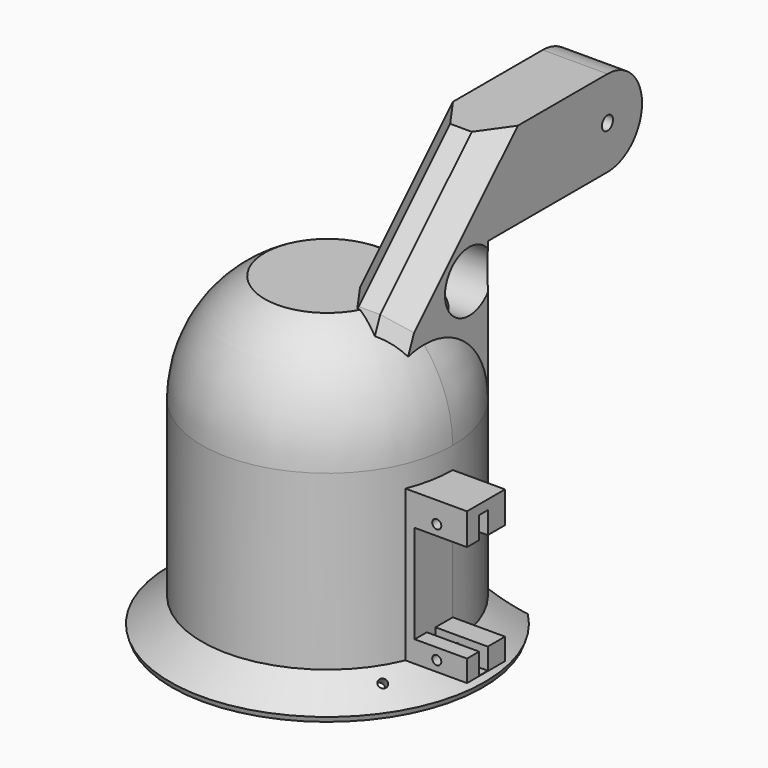
from build123d import *

# Parameters (mm, degrees)
CYLINDER343_R               = 26
CYLINDER343_DEPTH           = 40
CYLINDER338_R               = 1.5
CYLINDER338_DEPTH           = 20
CYLINDER338_PLACEMENT_ANGLE = 45
CYLINDER339_R               = 1
CYLINDER339_DEPTH           = 20
CYLINDER339_PLACEMENT_ANGLE = 45
FUSION303_PLACEMENT_ANGLE   = 45
FUSION350_PLACEMENT_ANGLE   = 12
CYLINDER342_R               = 29
CYLINDER342_DEPTH           = 40
CHAMFER043_SIZE             = 2
CYLINDER344_W               = 29
CYLINDER344_H               = 40
CYLINDER344_ANGLE           = 90
CYLINDER345_W               = 35
CYLINDER345_H               = 40
CYLINDER345_ANGLE           = 90
CYLINDER341_R               = 1.05
CYLINDER341_DEPTH           = 50
CYLINDER337_R               = 1.05
CYLINDER337_DEPTH           = 50
FUSION348_PLACEMENT_ANGLE   = 90
BOX450_W                    = 12.1
BOX450_H                    = 14
BOX450_DEPTH                = 35
BOX448_W                    = 12.1
BOX448_H                    = 2.5
BOX448_DEPTH                = 32.7
BOX449_W                    = 12.1
BOX449_H                    = 26.7
BOX449_DEPTH                = 22.7
CYLINDER340_R               = 2.4
CYLINDER340_DEPTH           = 3
BOX447_W                    = 45.1
BOX447_H                    = 25
BOX447_DEPTH                = 35
CYLINDER347_R               = 26
CYLINDER347_DEPTH           = 40
CYLINDER348_W               = 29
CYLINDER348_H               = 79
CYLINDER348_ANGLE           = 90
CYLINDER349_W               = 50
CYLINDER349_H               = 79
CYLINDER349_ANGLE           = 90
CYLINDER346_R               = 7
CYLINDER346_DEPTH           = 50
BOX451_W                    = 15
BOX451_H                    = 39
BOX451_DEPTH                = 67
CHAMFER040_SIZE             = 30
CHAMFER041_SIZE             = 5
BOX453_W                    = 7
BOX453_H                    = 34
BOX453_DEPTH                = 13
CYLINDER351_R               = 1.6
CYLINDER351_DEPTH           = 25
CYLINDER350_R               = 10
CYLINDER350_DEPTH           = 15
BOX452_W                    = 15
BOX452_H                    = 24
BOX452_DEPTH                = 20


with BuildPart() as sphere008:
    # Sphere008 → Sphere008 (revolve)
    with BuildSketch(Plane(origin=(-34, -145, 13), x_dir=(1, 0, 0), z_dir=(0, -1, 0))):
        with BuildLine():
            ThreePointArc((26, 0), (22.51666, 13), (13, 22.51666))
            Line((13, 22.51666), (0, 22.51666))
            Line((0, 22.51666), (0, 0))
            Line((0, 0), (26, 0))
        make_face()
    revolve(axis=Axis((-34, -145, 13), (0, 0, 1)))


with BuildPart() as fusion349:
    # Cylinder343 → Cylinder343 (new body)
    with BuildSketch(Plane(origin=(-34, -145, -27), x_dir=(1, 0, 0), z_dir=(0, 0, 1))):
        Circle(CYLINDER343_R)
    extrude(amount=CYLINDER343_DEPTH)

    # Fusion349: union Sphere008
    add(sphere008.part)


with BuildPart() as fusion349_1:
    # Fusion349 placement: moved
    add(fusion349.part.moved(Location((0, 0, 12))))


with BuildPart() as cylinder338:
    # Cylinder338 → Cylinder338 (new body)
    with BuildSketch(Plane.XY):
        Circle(CYLINDER338_R)
    extrude(amount=CYLINDER338_DEPTH)


with BuildPart() as cylinder338_1:
    # Cylinder338 placement: moved
    add(cylinder338.part.moved(Location((-57, -145, -26))).rotate(Axis((-57, -145, -26), (0, -1, 0)), CYLINDER338_PLACEMENT_ANGLE))


with BuildPart() as fusion350:
    # Cylinder339 → Cylinder339 (new body)
    with BuildSketch(Plane.XY):
        Circle(CYLINDER339_R)
    extrude(amount=CYLINDER339_DEPTH)


with BuildPart() as fusion350_1:
    # Cylinder339 placement: moved
    add(fusion350.part.moved(Location((-11, -145, -26))).rotate(Axis((-11, -145, -26), (0, 1, 0)), CYLINDER339_PLACEMENT_ANGLE))

    # Fusion303: union Cylinder338
    add(cylinder338_1.part)


with BuildPart() as fusion350_2:
    # Fusion303 placement: moved
    add(fusion350_1.part.moved(Location((92.57, -66.51, 0))).rotate(Axis((92.57, -66.51, 0), (0, 0, -1)), FUSION303_PLACEMENT_ANGLE))


with BuildPart() as fusion350_3:
    # Fusion350 placement: moved
    add(fusion350_2.part.moved(Location((-30.890177, 3.9004, 0))).rotate(Axis((-30.890177, 3.9004, 0), (0, 0, 1)), FUSION350_PLACEMENT_ANGLE))


with BuildPart() as sphere010:
    # Sphere010 → Sphere010 (revolve)
    with BuildSketch(Plane(origin=(-34, -119, -36), x_dir=(1, 0, 0), z_dir=(0, -1, 0))):
        with BuildLine():
            ThreePointArc((0, -30), (30, 0), (0, 30))
            Line((0, 30), (0, -30))
        make_face()
    revolve(axis=Axis((-34, -119, -36), (0, 0, 1)))


with BuildPart() as cylinder342:
    # Cylinder342 → Cylinder342 (new body)
    with BuildSketch(Plane(origin=(-34, -145, -15), x_dir=(1, 0, 0), z_dir=(0, 0, 1))):
        Circle(CYLINDER342_R)
    extrude(amount=CYLINDER342_DEPTH)


with BuildPart() as sphere007:
    # Sphere007 → Sphere007 (revolve)
    with BuildSketch(Plane(origin=(-34, -145, 25), x_dir=(1, 0, 0), z_dir=(0, -1, 0))):
        with BuildLine():
            ThreePointArc((29, 0), (25.114737, 14.5), (14.5, 25.114737))
            Line((14.5, 25.114737), (0, 25.114737))
            Line((0, 25.114737), (0, 0))
            Line((0, 0), (29, 0))
        make_face()
    revolve(axis=Axis((-34, -145, 25), (0, 0, 1)))


with BuildPart() as cone005:
    # Cone005 → Cone005 (revolve)
    with BuildSketch(Plane.XZ):
        Polygon((0, 0), (33, 0), (26, 7), (0, 7), align=None)
    revolve(axis=Axis((0, 0, 0), (0, 0, 1)))


with BuildPart() as cut373:
    # Cone004 → Cone004 (revolve)
    with BuildSketch(Plane.XZ):
        Polygon((0, 0), (38, 0), (29, 7), (0, 7), align=None)
    revolve(axis=Axis((0, 0, 0), (0, 0, 1)))

    # Cut355: cut Cone005
    add(cone005.part, mode=Mode.SUBTRACT)


with BuildPart() as cut373_1:
    # Cut355 placement: moved
    add(cut373.part.moved(Location((-34, -145, -22))))

    # Chamfer043
    chamfer043_edges = [cut373_1.edges().sort_by_distance(p)[0] for p in [
        (-72, -145, -22),
    ]]
    chamfer(chamfer043_edges, length=CHAMFER043_SIZE)

    # Fusion358: union Cylinder342, Sphere007
    add(cylinder342.part)
    add(sphere007.part)

    # Cut372: cut Sphere010
    add(sphere010.part, mode=Mode.SUBTRACT)

    # Cut373: cut Fusion350
    add(fusion350_3.part, mode=Mode.SUBTRACT)


with BuildPart() as cylinder344:
    # Cylinder344 → Cylinder344 (revolve)
    with BuildSketch(Plane.XZ):
        with Locations((14.5, 20)):
            Rectangle(CYLINDER344_W, CYLINDER344_H)
    revolve(axis=Axis((0, 0, 0), (0, 0, 1)), revolution_arc=CYLINDER344_ANGLE)


with BuildPart() as cut329:
    # Cylinder345 → Cylinder345 (revolve)
    with BuildSketch(Plane.XZ):
        with Locations((17.5, 20)):
            Rectangle(CYLINDER345_W, CYLINDER345_H)
    revolve(axis=Axis((0, 0, 0), (0, 0, 1)), revolution_arc=CYLINDER345_ANGLE)

    # Cut329: cut Cylinder344
    add(cylinder344.part, mode=Mode.SUBTRACT)


with BuildPart() as cut329_1:
    # Cut329 placement: moved
    add(cut329.part.moved(Location((-34, -145, -17))))


with BuildPart() as cylinder341:
    # Cylinder341 → Cylinder341 (new body)
    with BuildSketch(Plane(origin=(0, -27.7, 0), x_dir=(1, 0, 0), z_dir=(0, 0, 1))):
        Circle(CYLINDER341_R)
    extrude(amount=CYLINDER341_DEPTH)


with BuildPart() as fusion348:
    # Cylinder337 → Cylinder337 (new body)
    with BuildSketch(Plane.XY):
        Circle(CYLINDER337_R)
    extrude(amount=CYLINDER337_DEPTH)

    # Fusion348: union Cylinder341
    add(cylinder341.part)


with BuildPart() as fusion348_1:
    # Fusion348 placement: moved
    add(fusion348.part.moved(Location((4.1, -111, 13.1))).rotate(Axis((4.1, -111, 13.1), (1, 0, 0)), FUSION348_PLACEMENT_ANGLE))


with BuildPart() as box450:
    # Box450 → Box450 (new body)
    with BuildSketch(Plane(origin=(-1, -135, -17), x_dir=(1, 0, 0), z_dir=(0, 0, 1))):
        with Locations((6.05, 7)):
            Rectangle(BOX450_W, BOX450_H)
    extrude(amount=BOX450_DEPTH)


with BuildPart() as box448:
    # Box448 → Box448 (new body)
    with BuildSketch(Plane(origin=(0, 8.5, -4.9), x_dir=(1, 0, 0), z_dir=(0, 0, 1))):
        with Locations((6.05, 1.25)):
            Rectangle(BOX448_W, BOX448_H)
    extrude(amount=BOX448_DEPTH)


with BuildPart() as box449:
    # Box449 → Box449 (new body)
    with BuildSketch(Plane.XY):
        with Locations((6.05, 13.35)):
            Rectangle(BOX449_W, BOX449_H)
    extrude(amount=BOX449_DEPTH)


with BuildPart() as fusion347:
    # Cylinder340 → Cylinder340 (new body)
    with BuildSketch(Plane(origin=(6.05, 0, 16.4), x_dir=(1, 0, 0), z_dir=(0, -1, 0))):
        Circle(CYLINDER340_R)
    extrude(amount=CYLINDER340_DEPTH)

    # Fusion347: union Box448, Box449
    add(box448.part)
    add(box449.part)


with BuildPart() as fusion347_1:
    # Fusion347 placement: moved
    add(fusion347.part.moved(Location((-1, -151, -12))))


with BuildPart() as cut384:
    # Box447 → Box447 (new body)
    with BuildSketch(Plane(origin=(-34, -146, -17), x_dir=(1, 0, 0), z_dir=(0, 0, 1))):
        with Locations((22.55, 12.5)):
            Rectangle(BOX447_W, BOX447_H)
    extrude(amount=BOX447_DEPTH)

    # Cut380: cut Fusion347
    add(fusion347_1.part, mode=Mode.SUBTRACT)

    # Cut381: cut Box450
    add(box450.part, mode=Mode.SUBTRACT)

    # Cut382: cut Fusion348
    add(fusion348_1.part, mode=Mode.SUBTRACT)


with BuildPart() as cut384_1:
    # Cut382 placement: moved
    add(cut384.part.moved(Location((-4, -10, 2))))

    # Cut383: cut Cut329
    add(cut329_1.part, mode=Mode.SUBTRACT)

    # Fusion359: union Cut373
    add(cut373_1.part)

    # Cut384: cut Fusion349
    add(fusion349_1.part, mode=Mode.SUBTRACT)


with BuildPart() as cut384_2:
    # Cut384 placement: moved
    add(cut384_1.part.moved(Location((0, 0, 5))))


with BuildPart() as sphere009:
    # Sphere009 → Sphere009 (revolve)
    with BuildSketch(Plane(origin=(-34, -145, 13), x_dir=(1, 0, 0), z_dir=(0, -1, 0))):
        with BuildLine():
            ThreePointArc((26, 0), (22.51666, 13), (13, 22.51666))
            Line((13, 22.51666), (0, 22.51666))
            Line((0, 22.51666), (0, 0))
            Line((0, 0), (26, 0))
        make_face()
    revolve(axis=Axis((-34, -145, 13), (0, 0, 1)))


with BuildPart() as fusion302:
    # Cylinder347 → Cylinder347 (new body)
    with BuildSketch(Plane(origin=(-34, -145, -27), x_dir=(1, 0, 0), z_dir=(0, 0, 1))):
        Circle(CYLINDER347_R)
    extrude(amount=CYLINDER347_DEPTH)

    # Fusion302: union Sphere009
    add(sphere009.part)


with BuildPart() as fusion302_1:
    # Fusion302 placement: moved
    add(fusion302.part.moved(Location((0, 0, 17))))


with BuildPart() as cylinder348:
    # Cylinder348 → Cylinder348 (revolve)
    with BuildSketch(Plane.XZ):
        with Locations((14.5, 39.5)):
            Rectangle(CYLINDER348_W, CYLINDER348_H)
    revolve(axis=Axis((0, 0, 0), (0, 0, 1)), revolution_arc=CYLINDER348_ANGLE)


with BuildPart() as cut359:
    # Cylinder349 → Cylinder349 (revolve)
    with BuildSketch(Plane.XZ):
        with Locations((25, 39.5)):
            Rectangle(CYLINDER349_W, CYLINDER349_H)
    revolve(axis=Axis((0, 0, 0), (0, 0, 1)), revolution_arc=CYLINDER349_ANGLE)

    # Cut359: cut Cylinder348
    add(cylinder348.part, mode=Mode.SUBTRACT)


with BuildPart() as cut359_1:
    # Cut359 placement: moved
    add(cut359.part.moved(Location((-34, -145, -17))))


with BuildPart() as cylinder346:
    # Cylinder346 → Cylinder346 (new body)
    with BuildSketch(Plane(origin=(-36, -132, 56), x_dir=(0, 1, 0), z_dir=(1, 0, 0))):
        Circle(CYLINDER346_R)
    extrude(amount=CYLINDER346_DEPTH)


with BuildPart() as fusion360:
    # Box451 → Box451 (new body)
    with BuildSketch(Plane(origin=(-24.3, -155, 15), x_dir=(1, 0, 0), z_dir=(0, 0, 1))):
        with Locations((7.5, 19.5)):
            Rectangle(BOX451_W, BOX451_H)
    extrude(amount=BOX451_DEPTH)

    # Chamfer040
    chamfer040_edges = [fusion360.edges().sort_by_distance(p)[0] for p in [
        (-16.8, -155, 82),
    ]]
    chamfer(chamfer040_edges, length=CHAMFER040_SIZE)

    # Chamfer041
    chamfer041_edges = [fusion360.edges().sort_by_distance(p)[0] for p in [
        (-24.3, -140, 67),
        (-9.3, -155, 33.5),
        (-16.8, -155, 52),
        (-9.3, -140, 67),
    ]]
    chamfer(chamfer041_edges, length=CHAMFER041_SIZE)


with BuildPart() as fusion360_1:
    # Chamfer041 placement: moved
    add(fusion360.part.moved(Location((-2.3, 0, 0))))

    # Cut375: cut Cylinder346
    add(cylinder346.part, mode=Mode.SUBTRACT)

    # Cut376: cut Cut359
    add(cut359_1.part, mode=Mode.SUBTRACT)

    # Cut377: cut Fusion302
    add(fusion302_1.part, mode=Mode.SUBTRACT)

    # Fusion360: union Cut384
    add(cut384_2.part)


with BuildPart() as fusion360_2:
    # Fusion360 placement: moved
    add(fusion360_1.part.moved(Location((0, 3, 0))))


with BuildPart() as box453:
    # Box453 → Box453 (new body)
    with BuildSketch(Plane(origin=(-26.6, -113, 65.5), x_dir=(1, 0, 0), z_dir=(0, 0, 1))):
        with Locations((3.5, 17)):
            Rectangle(BOX453_W, BOX453_H)
    extrude(amount=BOX453_DEPTH)


with BuildPart() as cylinder351:
    # Cylinder351 → Cylinder351 (new body)
    with BuildSketch(Plane(origin=(-31.3, -89, 72), x_dir=(0, 1, 0), z_dir=(1, 0, 0))):
        Circle(CYLINDER351_R)
    extrude(amount=CYLINDER351_DEPTH)


with BuildPart() as cylinder350:
    # Cylinder350 → Cylinder350 (new body)
    with BuildSketch(Plane(origin=(-26.6, -89, 72), x_dir=(0, 1, 0), z_dir=(1, 0, 0))):
        Circle(CYLINDER350_R)
    extrude(amount=CYLINDER350_DEPTH)


with BuildPart() as fusion361:
    # Box452 → Box452 (new body)
    with BuildSketch(Plane(origin=(-26.6, -113, 62), x_dir=(1, 0, 0), z_dir=(0, 0, 1))):
        with Locations((7.5, 12)):
            Rectangle(BOX452_W, BOX452_H)
    extrude(amount=BOX452_DEPTH)

    # Fusion355: union Cylinder350
    add(cylinder350.part)

    # Cut378: cut Cylinder351
    add(cylinder351.part, mode=Mode.SUBTRACT)

    # Cut379: cut Box453
    add(box453.part, mode=Mode.SUBTRACT)

    # Fusion361: union Fusion360
    add(fusion360_2.part)


solid = fusion361.part
